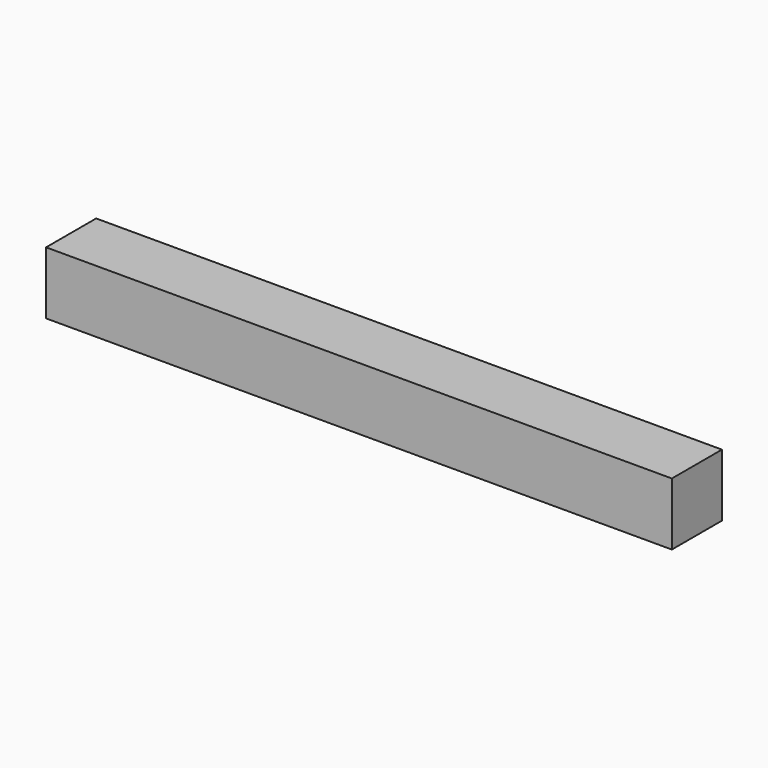
from build123d import *

# Parameters (mm, degrees)
BOX_W     = 100
BOX_H     = 10
BOX_DEPTH = 10


with BuildPart() as part:
    # Box → Box (new body)
    with BuildSketch(Plane.XY):
        with Locations((50, 5)):
            Rectangle(BOX_W, BOX_H)
    extrude(amount=BOX_DEPTH)


solid = part.part
